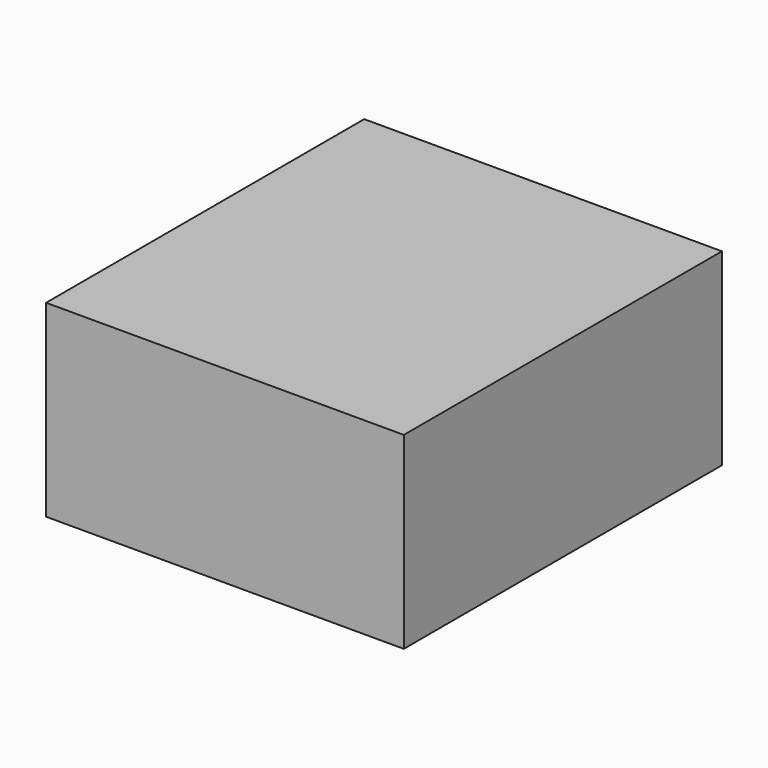
from build123d import *

# Parameters (mm, degrees)
F0_W      = 177.8
F0_H      = 21.409567
F0_H_2    = 59.42247
F0_H_3    = 52.202514
F0_H_4    = 12.670972
F0_H_5    = 52.868523
F0_H_6    = 4.625954
F1_DEPTH  = 70.866
F1_FACE_W = 177.8
F1_FACE_H = 203.2
F2_DEPTH  = 25.4
F3_DEPTH  = 71
F4_W      = 203.2
F4_H      = 96.266
F5_DEPTH  = 5


with BuildPart() as f1:
    # F0 (on Top) → F1 (new body)
    with BuildSketch(Plane.XY):
        with Locations((0, 2.87156)):
            Rectangle(F0_W, F0_H)
        with Locations((0, 43.287579)):
            Rectangle(F0_W, F0_H_2)
        with Locations((0, 111.771043)):
            Rectangle(F0_W, F0_H_3)
        with Locations((0, 79.3343)):
            Rectangle(F0_W, F0_H_4)
        with Locations((0, -34.267485)):
            Rectangle(F0_W, F0_H_5)
        with Locations((0, -63.014723)):
            Rectangle(F0_W, F0_H_6)
    extrude(amount=F1_DEPTH)

    # F1_face (on face) → F2 (join)
    with BuildSketch(Plane(origin=(0, 36.2723, 70.866), x_dir=(1, 0, 0), z_dir=(0, 0, 1))):
        Rectangle(F1_FACE_W, F1_FACE_H)
    extrude(amount=F2_DEPTH)

    # F0 (on Top) → F3 (cut)
    with BuildSketch(Plane.XY):
        with Locations((0, -34.267485)):
            Rectangle(F0_W, F0_H_5)
        with Locations((0, 43.287579)):
            Rectangle(F0_W, F0_H_2)
        with Locations((0, 111.771043)):
            Rectangle(F0_W, F0_H_3)
    extrude(amount=F3_DEPTH, mode=Mode.SUBTRACT)

    # F4 (on face) → F5 (join)
    with BuildSketch(Plane.YZ.offset(88.9)):
        with Locations((36.2723, 48.133)):
            Rectangle(F4_W, F4_H)
    extrude(amount=F5_DEPTH)


solid = f1.part
